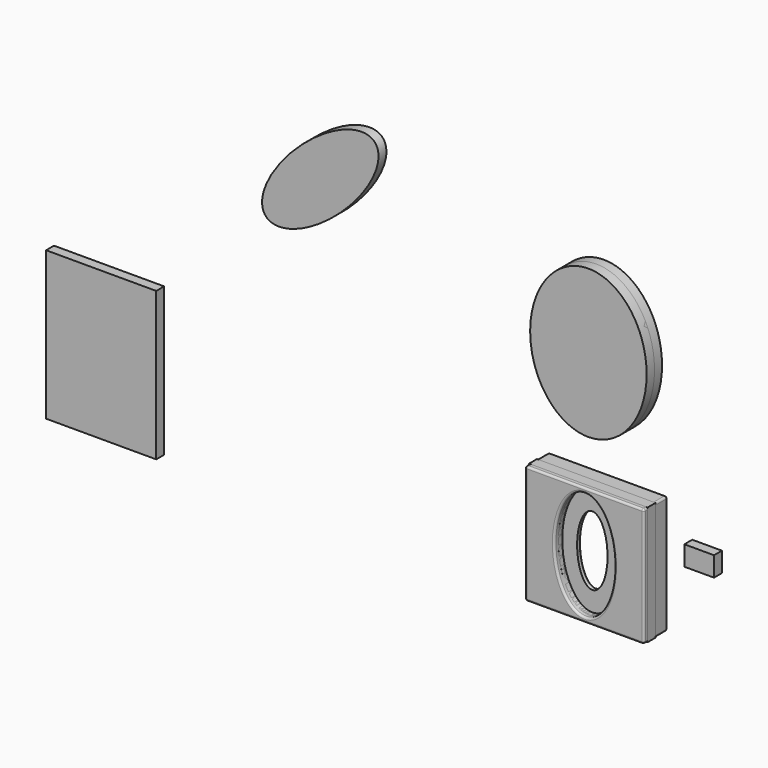
from build123d import *

# Parameters (mm, degrees)
F0_W     = 304.8
F0_H     = 304.8
F1_DEPTH = 38.1
F2_DEPTH = 24.13
F3_DEPTH = 12.7
F4_R     = 5.08
F5_R     = 5.08
F6_DEPTH = 25.4
F0_W_2   = 355.6
F0_H_2   = 355.6
F0_W_3   = 76.2
F0_H_3   = 50.8
F0_W_4   = 283.0131053925
F0_H_4   = 381


with BuildPart() as f1:
    # F0 (on Front) → F1 (new body, symmetric)
    with BuildSketch(Plane.XZ):
        Rectangle(F0_W, F0_H)
        with BuildLine():
            add(Edge.make_bspline(
                [(0, 139.7), (-133.8181672134, 139.7), (-66.9090836067, -69.85), (0, -279.4), (66.9090836067, -69.85), (133.8181672134, 139.7), (0, 139.7)],
                knots=[0, 0, 0, 2.0943951024, 2.0943951024, 4.1887902048, 4.1887902048, 6.2831853072, 6.2831853072, 6.2831853072], degree=2, weights=[1, 0.5, 1, 0.5, 1, 0.5, 1]))
        make_face(mode=Mode.SUBTRACT)
    extrude(amount=F1_DEPTH, both=True)

    # F0 (on Front) → F3 (join)
    with BuildSketch(Plane.XZ):
        with BuildLine():
            add(Edge.make_bspline(
                [(0, 139.7), (-133.8181672134, 139.7), (-66.9090836067, -69.85), (0, -279.4), (66.9090836067, -69.85), (133.8181672134, 139.7), (0, 139.7)],
                knots=[0, 0, 0, 2.0943951024, 2.0943951024, 4.1887902048, 4.1887902048, 6.2831853072, 6.2831853072, 6.2831853072], degree=2, weights=[1, 0.5, 1, 0.5, 1, 0.5, 1]))
        make_face()
        with BuildLine():
            add(Edge.make_bspline(
                [(0, 88.9), (-67.8838211957, 88.9), (-33.9419105978, -44.45), (0, -177.8), (33.9419105978, -44.45), (67.8838211957, 88.9), (0, 88.9)],
                knots=[0, 0, 0, 2.0943951024, 2.0943951024, 4.1887902048, 4.1887902048, 6.2831853072, 6.2831853072, 6.2831853072], degree=2, weights=[1, 0.5, 1, 0.5, 1, 0.5, 1]))
        make_face(mode=Mode.SUBTRACT)
    extrude(amount=F3_DEPTH)

    # F4
    f4_edges = [f1.edges().sort_by_distance(p)[0] for p in [
        (152.4, -38.1, 0),
        (0, -38.1, 152.4),
        (-152.4, -38.1, 0),
        (0, -38.1, -152.4),
        (-5e-06, -38.1, -139.7),
        (-152.4, 0, 152.4),
        (152.4, 0, 152.4),
        (0, 38.1, 152.4),
        (-152.4, 38.1, 0),
        (0, 38.1, -152.4),
        (152.4, 0, -152.4),
        (-152.4, 0, -152.4),
        (152.4, 38.1, 0),
        (-5e-06, 38.1, -139.7),
    ]]
    fillet(f4_edges, radius=F4_R)

    # F5
    f5_edges = [f1.edges().sort_by_distance(p)[0] for p in [
        (-4.4e-05, 0, -88.9),
    ]]
    fillet(f5_edges, radius=F5_R)


with BuildPart() as f2:
    # F0 (on Front) → F2 (new body, symmetric)
    with BuildSketch(Plane.XZ):
        with BuildLine():
            add(Edge.make_bspline(
                [(0, 262.0917470455), (259.1200218774, 262.0917470455), (129.5600109387, 547.8417470455), (0, 833.5917470455), (-129.5600109387, 547.8417470455), (-259.1200218774, 262.0917470455), (0, 262.0917470455)],
                knots=[0, 0, 0, 2.0943951024, 2.0943951024, 4.1887902048, 4.1887902048, 6.2831853072, 6.2831853072, 6.2831853072], degree=2, weights=[1, 0.5, 1, 0.5, 1, 0.5, 1]))
        make_face()
    extrude(amount=F2_DEPTH, both=True)


with BuildPart() as f6:
    # F0 (on Front) → F6 (new body)
    with BuildSketch(Plane.XZ):
        Rectangle(F0_W, F0_H)
        with BuildLine():
            add(Edge.make_bspline(
                [(0, 139.7), (-133.8181672134, 139.7), (-66.9090836067, -69.85), (0, -279.4), (66.9090836067, -69.85), (133.8181672134, 139.7), (0, 139.7)],
                knots=[0, 0, 0, 2.0943951024, 2.0943951024, 4.1887902048, 4.1887902048, 6.2831853072, 6.2831853072, 6.2831853072], degree=2, weights=[1, 0.5, 1, 0.5, 1, 0.5, 1]))
        make_face(mode=Mode.SUBTRACT)
    extrude(amount=F6_DEPTH)


with BuildPart() as f6b:
    # F0 (on Front) → F6, piece 2 (new body)
    with BuildSketch(Plane.XZ):
        with BuildLine():
            add(Edge.make_bspline(
                [(0, 262.0917470455), (259.1200218774, 262.0917470455), (129.5600109387, 547.8417470455), (0, 833.5917470455), (-129.5600109387, 547.8417470455), (-259.1200218774, 262.0917470455), (0, 262.0917470455)],
                knots=[0, 0, 0, 2.0943951024, 2.0943951024, 4.1887902048, 4.1887902048, 6.2831853072, 6.2831853072, 6.2831853072], degree=2, weights=[1, 0.5, 1, 0.5, 1, 0.5, 1]))
        make_face()
    extrude(amount=F6_DEPTH)


with BuildPart() as f6c:
    # F0 (on Front) → F6, piece 3 (new body)
    with BuildSketch(Plane.XZ):
        with Locations((-447.0318552971, -29.503404808)):
            Rectangle(F0_W_2, F0_H_2)
    extrude(amount=F6_DEPTH)


with BuildPart() as f6d:
    # F0 (on Front) → F6, piece 4 (new body)
    with BuildSketch(Plane.XZ):
        with Locations((284.6723007917, 74.2890297711)):
            Rectangle(F0_W_3, F0_H_3)
    extrude(amount=F6_DEPTH)


with BuildPart() as f6e:
    # F0 (on Front) → F6, piece 5 (new body)
    with BuildSketch(Plane.XZ):
        with BuildLine():
            add(Edge.make_bspline(
                [(-828.4847629755, 491.7451278574), (-736.1871043517, 392.1099629352), (-572.7087981649, 636.116954383), (-409.2304919781, 880.1239458308), (-665.0064567887, 735.7521193053), (-920.7824215993, 591.3802927797), (-828.4847629755, 491.7451278574)],
                knots=[0, 0, 0, 2.0943951024, 2.0943951024, 4.1887902048, 4.1887902048, 6.2831853072, 6.2831853072, 6.2831853072], degree=2, weights=[1, 0.5, 1, 0.5, 1, 0.5, 1]))
        make_face()
    extrude(amount=F6_DEPTH)


with BuildPart() as f6f:
    # F0 (on Front) → F6, piece 6 (new body)
    with BuildSketch(Plane.XZ):
        with Locations((-1251.6837120056, 40.9594415426)):
            Rectangle(F0_W_4, F0_H_4)
    extrude(amount=F6_DEPTH)


solid = Compound([f1.part, f2.part, f6.part, f6b.part, f6d.part, f6e.part, f6f.part])
